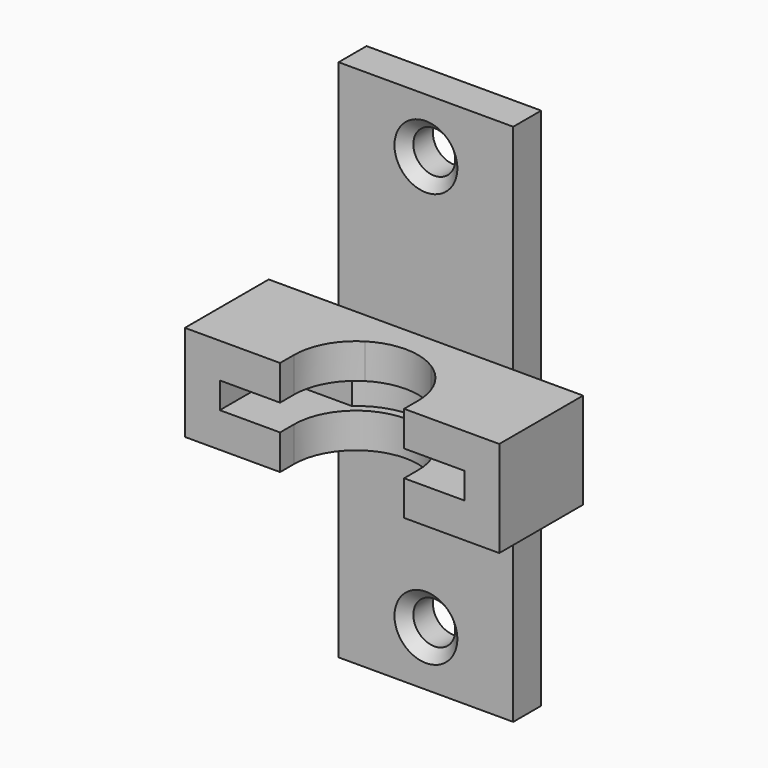
from build123d import *

# Parameters (mm, degrees)
F1_DEPTH = 5.08
F2_DEPTH = 13.97
F3_START = 3.81
F3_DEPTH = 5.08
F4_R     = 3.048
F4_W     = 12.7
F4_H     = 6.985
F5_DEPTH = 5.08
F6_SIZE  = 1.524


with BuildPart() as f1:
    # F0 (on Top) → F1 (new body)
    with BuildSketch(Plane.XY):
        with BuildLine():
            ThreePointArc((-10.16, -0.9357894737), (-9.2602083301, 3.2444188564), (-6.7202083301, 6.6842105263))
            Line((-6.7202083301, 6.6842105263), (-17.78, 6.6842105263))
            Line((-17.78, 6.6842105263), (-17.78, -3.4757894737))
            Line((-17.78, -3.4757894737), (-10.16, -3.4757894737))
            Line((-10.16, -3.4757894737), (-10.16, -0.9357894737))
        make_face()
        with BuildLine():
            Line((17.78, 6.6842105263), (6.7202083301, 6.6842105263))
            ThreePointArc((6.7202083301, 6.6842105263), (9.2602083301, 3.2444188564), (10.16, -0.9357894737))
            Line((10.16, -0.9357894737), (10.16, -3.4757894737))
            Line((10.16, -3.4757894737), (17.78, -3.4757894737))
            Line((17.78, -3.4757894737), (17.78, 6.6842105263))
        make_face()
        with BuildLine():
            Line((-9.017, -3.4757894737), (-9.017, -0.9357894737))
            ThreePointArc((-9.017, -0.9357894737), (-7.8986424103, 3.4136630291), (-4.8209842356, 6.6842105263))
            Line((-4.8209842356, 6.6842105263), (-6.7202083301, 6.6842105263))
            ThreePointArc((-6.7202083301, 6.6842105263), (-9.2602083301, 3.2444188564), (-10.16, -0.9357894737))
            ThreePointArc((-10.16, -0.9357894737), (-10.0790217141, -2.2159930853), (-9.8373776994, -3.4757894737))
            Line((-9.8373776994, -3.4757894737), (-9.017, -3.4757894737))
        make_face()
        with BuildLine():
            ThreePointArc((4.8209842356, 6.6842105263), (7.8986424103, 3.4136630291), (9.017, -0.9357894737))
            Line((9.017, -0.9357894737), (9.017, -3.4757894737))
            Line((9.017, -3.4757894737), (9.8373776994, -3.4757894737))
            ThreePointArc((9.8373776994, -3.4757894737), (10.0790217141, -2.2159930853), (10.16, -0.9357894737))
            ThreePointArc((10.16, -0.9357894737), (9.2602083301, 3.2444188564), (6.7202083301, 6.6842105263))
            Line((6.7202083301, 6.6842105263), (4.8209842356, 6.6842105263))
        make_face()
        with BuildLine():
            ThreePointArc((-4.8209842356, 6.6842105263), (0, 8.0812105263), (4.8209842356, 6.6842105263))
            Line((4.8209842356, 6.6842105263), (6.7202083301, 6.6842105263))
            ThreePointArc((6.7202083301, 6.6842105263), (0, 9.2242105263), (-6.7202083301, 6.6842105263))
            Line((-6.7202083301, 6.6842105263), (-4.8209842356, 6.6842105263))
        make_face()
        with BuildLine():
            Line((-10.16, -3.4757894737), (-9.8373776994, -3.4757894737))
            ThreePointArc((-9.8373776994, -3.4757894737), (-10.0790217141, -2.2159930853), (-10.16, -0.9357894737))
            Line((-10.16, -0.9357894737), (-10.16, -3.4757894737))
        make_face()
        with BuildLine():
            ThreePointArc((10.16, -0.9357894737), (10.0790217141, -2.2159930853), (9.8373776994, -3.4757894737))
            Line((9.8373776994, -3.4757894737), (10.16, -3.4757894737))
            Line((10.16, -3.4757894737), (10.16, -0.9357894737))
        make_face()
    extrude(amount=-F1_DEPTH)

    # F0 (on Top) → F2 (join)
    with BuildSketch(Plane.XY):
        with BuildLine():
            ThreePointArc((-6.7202083301, 6.6842105263), (0, 9.2242105263), (6.7202083301, 6.6842105263))
            Line((6.7202083301, 6.6842105263), (17.78, 6.6842105263))
            Line((17.78, 6.6842105263), (17.78, -3.4757894737))
            Line((17.78, -3.4757894737), (22.86, -3.4757894737))
            Line((22.86, -3.4757894737), (22.86, 11.7642105263))
            Line((22.86, 11.7642105263), (-22.86, 11.7642105263))
            Line((-22.86, 11.7642105263), (-22.86, -3.4757894737))
            Line((-22.86, -3.4757894737), (-17.78, -3.4757894737))
            Line((-17.78, -3.4757894737), (-17.78, 6.6842105263))
            Line((-17.78, 6.6842105263), (-6.7202083301, 6.6842105263))
        make_face()
    extrude(amount=-F2_DEPTH)

    # F1_face (on face) → F3 (join)
    with BuildSketch(Plane(origin=(0, 2.3290563147, -5.08), x_dir=(1, 0, 0), z_dir=(0, 0, -1)).offset(F3_START)):
        with BuildLine():
            Line((-17.78, 5.8048457884), (-17.78, -4.3551542116))
            Line((-17.78, -4.3551542116), (-6.7202083301, -4.3551542116))
            ThreePointArc((-6.7202083301, -4.3551542116), (0, -6.8951542116), (6.7202083301, -4.3551542116))
            Line((6.7202083301, -4.3551542116), (17.78, -4.3551542116))
            Line((17.78, -4.3551542116), (17.78, 5.8048457884))
            Line((17.78, 5.8048457884), (9.017, 5.8048457884))
            Line((9.017, 5.8048457884), (9.017, 3.2648457884))
            ThreePointArc((9.017, 3.2648457884), (0, -5.7521542116), (-9.017, 3.2648457884))
            Line((-9.017, 3.2648457884), (-9.017, 5.8048457884))
            Line((-9.017, 5.8048457884), (-17.78, 5.8048457884))
        make_face()
    extrude(amount=F3_DEPTH)

    # F4 (on face) → F5 (join)
    with BuildSketch(Plane(origin=(0, 11.7642105263, 0), x_dir=(-1, 0, 0), z_dir=(0, 1, 0))):
        Polygon((12.7, 0), (12.7, 31.115), (-12.7, 31.115), (-12.7, 0), (0, 0), align=None)
        with Locations((0, 23.1394)):
            Circle(F4_R, mode=Mode.SUBTRACT)
        Polygon((12.7, -45.085), (12.7, -13.97), (0, -13.97), (-12.7, -13.97), (-12.7, -45.085), align=None)
        with Locations((0, -37.1094)):
            Circle(F4_R, mode=Mode.SUBTRACT)
        with Locations((6.35, -10.4775)):
            Rectangle(F4_W, F4_H)
        Polygon((0, -6.985), (0, 0), (-12.7, 0), (-12.7, -13.97), (0, -13.97), align=None)
        with Locations((6.35, -3.4925)):
            Rectangle(F4_W, F4_H)
    extrude(amount=F5_DEPTH)

    # F6
    f6_edges = [f1.edges().sort_by_distance(p)[0] for p in [
        (3.048, 11.764211, 23.1394),
        (3.048, 11.764211, -37.1094),
    ]]
    chamfer(f6_edges, length=F6_SIZE)


solid = f1.part
